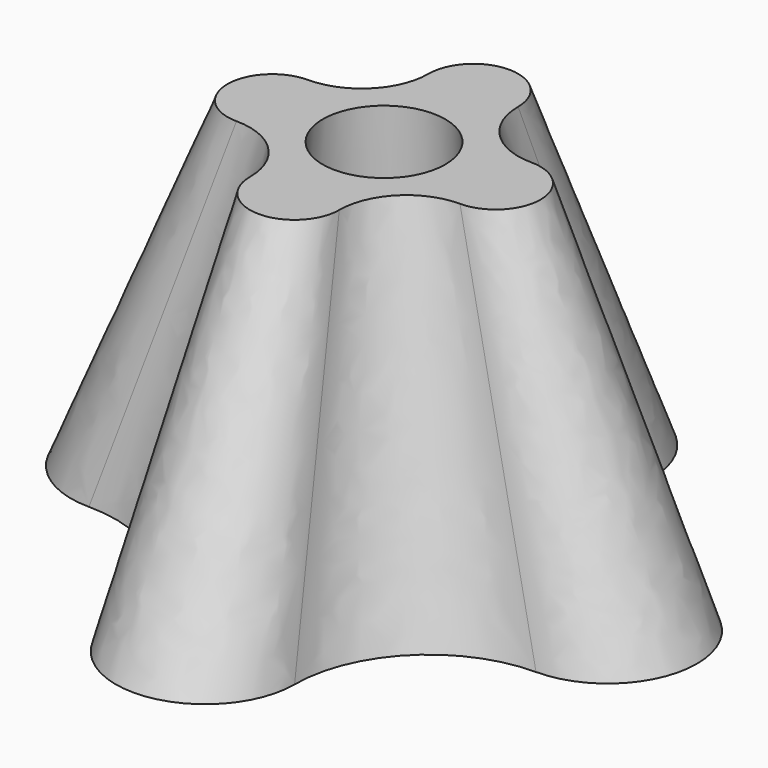
from build123d import *

# Parameters (mm, degrees)
F5_R = 16.536497
F6_R = 13.707839


with BuildPart() as f4:
    # F0 (on Top) → F4 section 0
    with BuildSketch(Plane.XY):
        with BuildLine():
            ThreePointArc((50, 20), (28.786797, 28.786797), (20, 50))
            ThreePointArc((20, 50), (0, 70), (-20, 50))
            ThreePointArc((-20, 50), (-28.786797, 28.786797), (-50, 20))
            ThreePointArc((-50, 20), (-70, 0), (-50, -20))
            ThreePointArc((-50, -20), (-28.786797, -28.786797), (-20, -50))
            ThreePointArc((-20, -50), (0, -70), (20, -50))
            ThreePointArc((20, -50), (28.786797, -28.786797), (50, -20))
            ThreePointArc((50, -20), (70, 0), (50, 20))
        make_face()
    # F3 (on plane+point) → F4 section 1
    with BuildSketch(Plane.XY.offset(80)):
        with BuildLine():
            ThreePointArc((25, 10), (14.393398, 14.393398), (10, 25))
            ThreePointArc((10, 25), (0, 35), (-10, 25))
            ThreePointArc((-10, 25), (-14.393398, 14.393398), (-25, 10))
            ThreePointArc((-25, 10), (-35, 0), (-25, -10))
            ThreePointArc((-25, -10), (-14.393398, -14.393398), (-10, -25))
            ThreePointArc((-10, -25), (0, -35), (10, -25))
            ThreePointArc((10, -25), (14.393398, -14.393398), (25, -10))
            ThreePointArc((25, -10), (35, 0), (25, 10))
        make_face()
    loft()

    # F5 (on Top) → F7 section 0
    with BuildSketch(Plane.XY):
        Circle(F5_R)
    # F6 (on face) → F7 section 1
    with BuildSketch(Plane.XY.offset(80)):
        Circle(F6_R)
    loft(mode=Mode.SUBTRACT)


solid = f4.part
